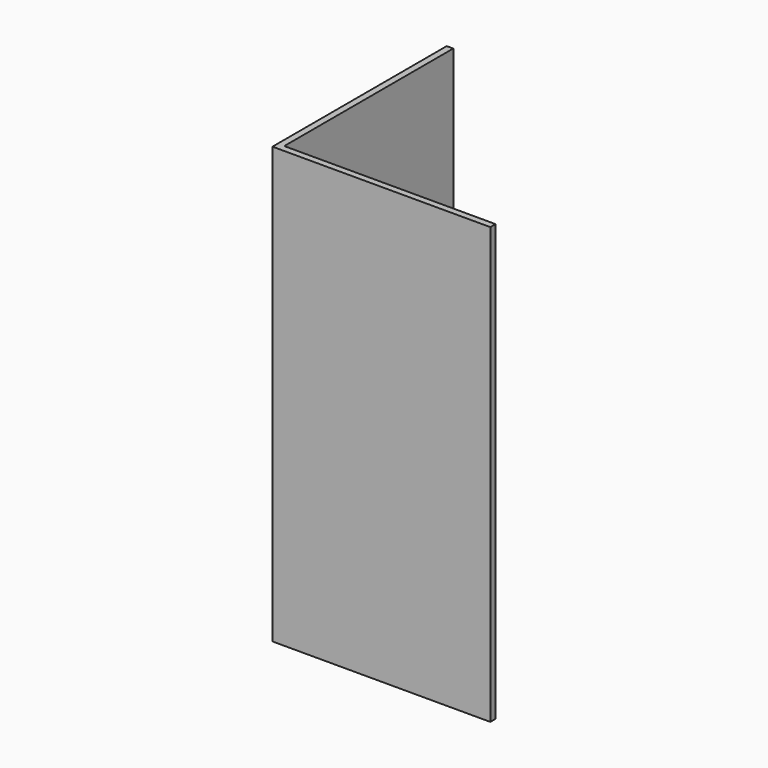
from build123d import *

# Parameters (mm, degrees)
F0_W     = 600
F0_H     = 1200
F1_DEPTH = 18
F2_W     = 582
F2_H     = 1200
F3_DEPTH = 18


with BuildPart() as f1:
    # F0 (on Front) → F1 (new body)
    with BuildSketch(Plane.XZ):
        with Locations((300, 600)):
            Rectangle(F0_W, F0_H)
    extrude(amount=-F1_DEPTH)

    # F2 (on face) → F3 (join)
    with BuildSketch(Plane(origin=(0, 0, 0), x_dir=(0, -1, 0), z_dir=(-1, 0, 0))):
        with Locations((-309, 600)):
            Rectangle(F2_W, F2_H)
    extrude(amount=-F3_DEPTH)


solid = f1.part
